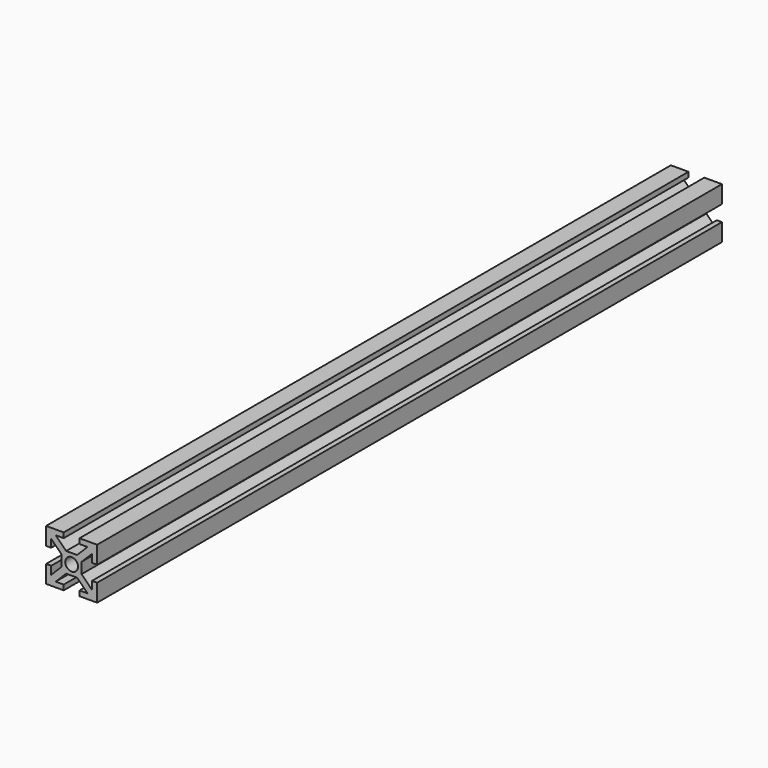
from build123d import *

# Parameters (mm, degrees)
SKETCH_W             = 20
SKETCH_H             = 20
PAD_DEPTH            = 306
SKETCH001_R          = 2.5
POCKET_DEPTH         = 306.001
POCKET001_DEPTH      = 306.001
BODY_PLACEMENT_ANGLE = 90


with BuildPart() as part:
    # Sketch → Pad (new body)
    with BuildSketch(Plane.XY):
        Rectangle(SKETCH_W, SKETCH_H)
    extrude(amount=PAD_DEPTH)

    # Sketch001 (on Face6 of Pad) → Pocket (cut, through all)
    with BuildSketch(Plane.XY.offset(306)):
        Circle(SKETCH001_R)
        Polygon((-3.1, 10), (3.1, 10), (3.1, 8), (6.232233, 8), (2.132233, 3.9), (-2.132233, 3.9), (-6.232233, 8), (-3.1, 8), align=None)
        Polygon((-3.1, -8), (-6.232233, -8), (-2.132233, -3.9), (2.132233, -3.9), (6.232233, -8), (3.1, -8), (3.1, -10), (-3.1, -10), align=None)
    extrude(amount=-POCKET_DEPTH, mode=Mode.SUBTRACT)

    # Sketch002 (on Face2 of Pocket) → Pocket001 (cut, through all)
    with BuildSketch(Plane(origin=(0, 0, 0), x_dir=(1, 0, 0), z_dir=(0, 0, -1))):
        Polygon((-10, -3.1), (-8, -3.1), (-8, -6.232233), (-3.9, -2.132233), (-3.9, 2.132233), (-8, 6.232233), (-8, 3.1), (-10, 3.1), align=None)
        Polygon((3.9, -2.132233), (3.9, 2.132233), (8, 6.232233), (8, 3.1), (10, 3.1), (10, -3.1), (8, -3.1), (8, -6.232233), align=None)
    extrude(amount=-POCKET001_DEPTH, mode=Mode.SUBTRACT)


with BuildPart() as part_1:
    # Body placement: moved
    add(part.part.moved(Location((-76, 0, 0))).rotate(Axis((-76, 0, 0), (1, 0, 0)), BODY_PLACEMENT_ANGLE))


solid = part_1.part
